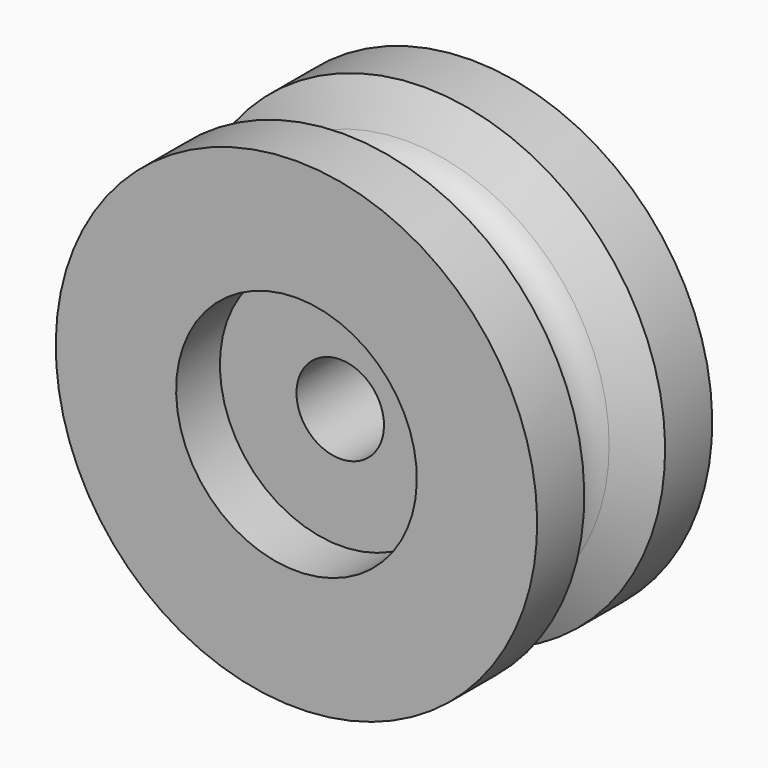
from build123d import *


with BuildPart() as f1:
    # F0 (on Right) → F1 (revolve)
    with BuildSketch(Plane.YZ):
        with BuildLine():
            Line((-2.5, 5.5), (-2.5, 2))
            Line((-2.5, 2), (2.5, 2))
            Line((2.5, 2), (2.5, 5.5))
            Line((2.5, 5.5), (5, 5.5))
            Line((5, 5.5), (5, 11))
            Line((5, 11), (2.309401, 11))
            Line((2.309401, 11), (1.299038, 9.25))
            ThreePointArc((1.299038, 9.25), (0, 8.5), (-1.299038, 9.25))
            Line((-1.299038, 9.25), (-2.309401, 11))
            Line((-2.309401, 11), (-5, 11))
            Line((-5, 11), (-5, 5.5))
            Line((-5, 5.5), (-2.5, 5.5))
        make_face()
    revolve(axis=Axis((0, 4.750687, 0), (0, 1, 0)))


solid = f1.part
